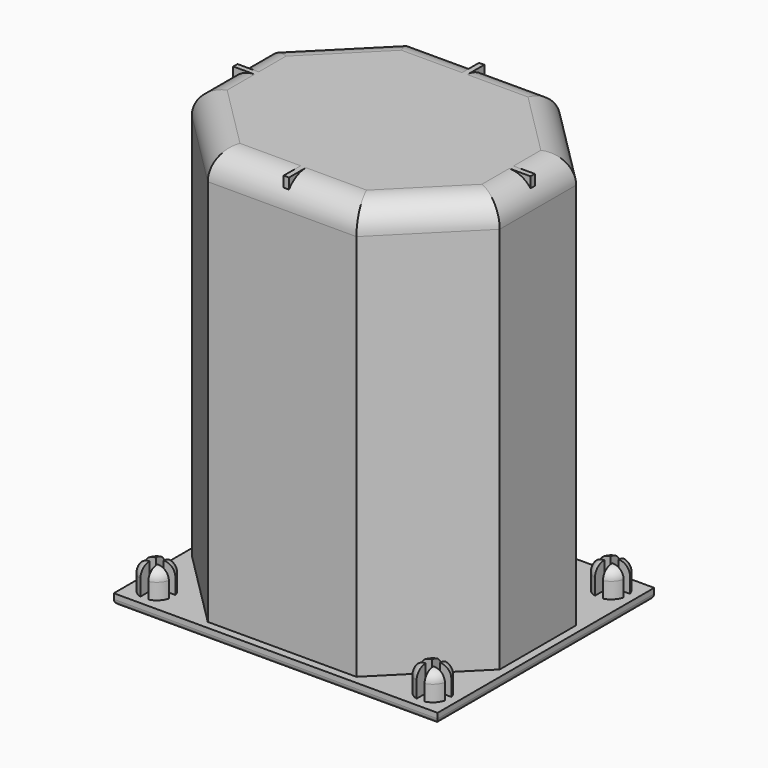
from build123d import *

# Parameters (mm, degrees)
SKETCH001_W                = 61
SKETCH001_H                = 51
PAD_DEPTH                  = 2
SKETCH002_R                = 3
PAD001_DEPTH               = 5
SKETCH002_MIRRORED_2_R     = 3
PAD001_MIRRORED_2_DEPTH    = 5
FILLET_R                   = 2
FILLET001_R                = 1
POCKET_DEPTH               = 5
POCKET_MIRRORED002_2_DEPTH = 5
PAD015_DEPTH               = 80
POCKET014_DEPTH            = 78
FILLET026_R                = 5
SKETCH055_W                = 1
SKETCH055_H                = 80
PAD018_DEPTH               = 46
SKETCH056_W                = 1
SKETCH056_H                = 80
PAD019_DEPTH               = 56


with BuildPart() as part:
    # Sketch001 → Pad (new body)
    with BuildSketch(Plane.XY):
        Rectangle(SKETCH001_W, SKETCH001_H)
    extrude(amount=PAD_DEPTH)

    # Sketch002 (on DatumPlane) → Pad001 (join)
    with BuildSketch(Plane.XY.offset(2)):
        with Locations((-26, 21)):
            Circle(SKETCH002_R)
    pad001 = extrude(amount=PAD001_DEPTH)

    # Sketch002 Mirrored 2 → Pad001 Mirrored 2 (add)
    with BuildSketch(Plane(origin=(0, 0, 2), x_dir=(-1, 0, 0), z_dir=(0, 0, -1))):
        with Locations((-26, 21)):
            Circle(SKETCH002_MIRRORED_2_R)
    pad001_mirrored_2 = extrude(amount=-PAD001_MIRRORED_2_DEPTH)

    # Mirrored001: Pad001, Pad001 Mirrored 2 across Sketch002 H_Axis
    add(pad001.mirror(Plane(origin=(0, 0, 2), x_dir=(0, 0, 1), z_dir=(0, 1, 0))))
    add(pad001_mirrored_2.mirror(Plane(origin=(0, 0, 2), x_dir=(0, 0, 1), z_dir=(0, 1, 0))))

    # Fillet
    fillet_edges = [part.edges().sort_by_distance(p)[0] for p in [
        (29, 21, 7),
        (29, -21, 7),
        (-29, -21, 7),
        (-29, 21, 7),
    ]]
    fillet(fillet_edges, radius=FILLET_R)

    # Fillet001
    fillet001_edges = [part.edges().sort_by_distance(p)[0] for p in [
        (0, 25.5, 0),
        (30.5, 0, 0),
        (0, -25.5, 0),
        (-30.5, 0, 0),
    ]]
    fillet(fillet001_edges, radius=FILLET001_R)

    # Sketch003 (on DatumPlane) → Pocket (cut)
    with BuildSketch(Plane.XY.offset(7)):
        Polygon((-29.265642, -20.28286), (-26.765642, -20.28286), (-26.765642, -17.78286), (-25.265642, -17.78286), (-25.265642, -20.28286), (-22.765642, -20.28286), (-22.765642, -21.78286), (-25.265642, -21.78286), (-25.265642, -24.28286), (-26.765642, -24.28286), (-26.765642, -21.78286), (-29.265642, -21.78286), align=None)
    pocket = extrude(amount=-POCKET_DEPTH, mode=Mode.SUBTRACT)

    # Sketch003 Mirrored002 2 → Pocket Mirrored002 2 (cut)
    with BuildSketch(Plane(origin=(0, 0, 7), x_dir=(-1, 0, 0), z_dir=(0, 0, -1))):
        Polygon((-29.265642, -20.28286), (-26.765642, -20.28286), (-26.765642, -17.78286), (-25.265642, -17.78286), (-25.265642, -20.28286), (-22.765642, -20.28286), (-22.765642, -21.78286), (-25.265642, -21.78286), (-25.265642, -24.28286), (-26.765642, -24.28286), (-26.765642, -21.78286), (-29.265642, -21.78286), align=None)
    pocket_mirrored002_2 = extrude(amount=POCKET_MIRRORED002_2_DEPTH, mode=Mode.SUBTRACT)

    # Mirrored003: Pocket, Pocket Mirrored002 2 across Sketch003 H_Axis
    add(pocket.mirror(Plane(origin=(0, 0, 7), x_dir=(0, 0, 1), z_dir=(0, 1, 0))), mode=Mode.SUBTRACT)
    add(pocket_mirrored002_2.mirror(Plane(origin=(0, 0, 7), x_dir=(0, 0, 1), z_dir=(0, 1, 0))), mode=Mode.SUBTRACT)


with BuildPart() as part_1:
    # Body placement: moved
    add(part.part.moved(Location((0, -65, 0))))


with BuildPart() as part_2:
    # Clone007 placement: moved
    add(part_1.part.moved(Location((0, 65, 0))))

    # Sketch048 (on DatumPlane) → Pad015 (new body)
    with BuildSketch(Plane(origin=(0, 0, 0), x_dir=(1, 0, 0), z_dir=(0, 0, -1))):
        Polygon((-29, 9), (-14, 24), (14, 24), (29, 9), (29, -9), (14, -24), (-14, -24), (-29, -9), align=None)
    extrude(amount=-PAD015_DEPTH)

    # Sketch049 (on DatumPlane) → Pocket014 (cut)
    with BuildSketch(Plane(origin=(0, 0, 0), x_dir=(1, 0, 0), z_dir=(0, 0, -1))):
        Polygon((-28, 8), (-13, 23), (13, 23), (28, 8), (28, -8), (13, -23), (-13, -23), (-28, -8), align=None)
    extrude(amount=-POCKET014_DEPTH, mode=Mode.SUBTRACT)

    # Fillet026
    fillet026_edges = [part_2.edges().sort_by_distance(p)[0] for p in [
        (-20.5, -15.5, 78),
        (0, -23, 78),
        (20.5, -15.5, 78),
        (28, 0, 78),
        (20.5, 15.5, 78),
        (0, 23, 78),
        (-20.5, 15.5, 78),
        (-28, 0, 78),
        (-21.5, -16.5, 80),
        (0, -24, 80),
        (21.5, -16.5, 80),
        (29, 0, 80),
        (21.5, 16.5, 80),
        (0, 24, 80),
        (-21.5, 16.5, 80),
        (-29, 0, 80),
    ]]
    fillet(fillet026_edges, radius=FILLET026_R)


with BuildPart() as part_3:
    # Body014 placement: moved
    add(part_2.part.moved(Location((225, 118, 0))))

    # Sketch055 (on DatumPlane) → Pad018 (new body)
    with BuildSketch(Plane(origin=(225, 95, 0), x_dir=(-1, 0, 0), z_dir=(0, 1, 0))):
        with Locations((0, 40)):
            Rectangle(SKETCH055_W, SKETCH055_H)
    extrude(amount=PAD018_DEPTH)

    # Sketch056 (on DatumPlane) → Pad019 (join)
    with BuildSketch(Plane(origin=(197, 118, 0), x_dir=(0, 1, 0), z_dir=(1, 0, 0))):
        with Locations((0, 40)):
            Rectangle(SKETCH056_W, SKETCH056_H)
    extrude(amount=PAD019_DEPTH)


with BuildPart() as part_4:
    # Body020 placement: moved
    add(part_3.part.moved(Location((72, 0, 0))))


solid = part_4.part
